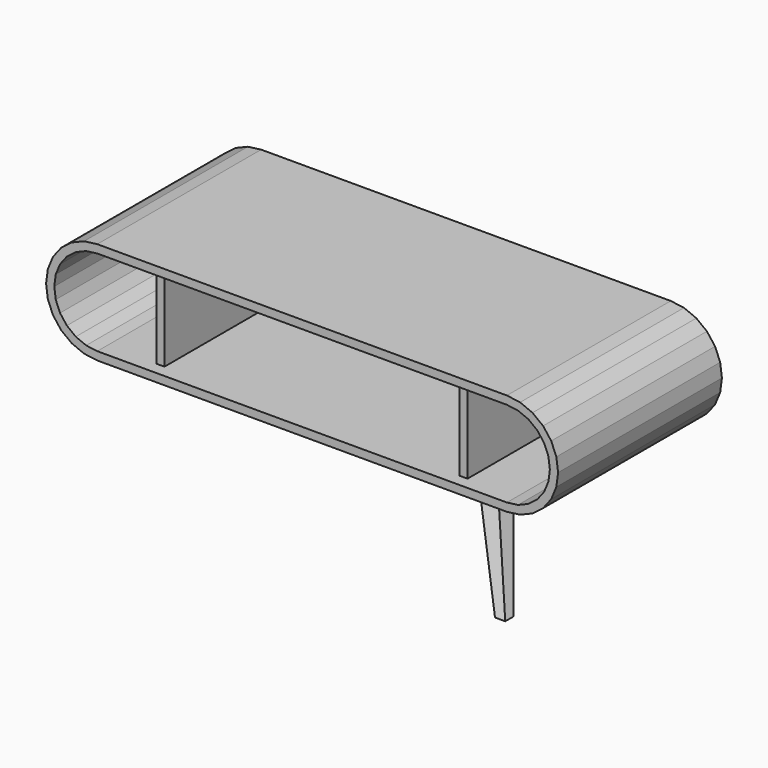
from build123d import *

# Parameters (mm, degrees)
PAD_DEPTH    = 500
SKETCH003_W  = 20
SKETCH003_H  = 440
PAD001_DEPTH = 210


with BuildPart() as top:
    # Sketch → Pad (new body)
    with BuildSketch(Plane.XZ):
        Polygon((0, 500), (1000, 500), (1032.352381, 495.740728), (1062.5, 483.253175), (1088.388348, 463.388348), (1108.253175, 437.5), (1120.740728, 407.352381), (1125, 375), (1120.740728, 342.647619), (1108.253175, 312.5), (1088.388348, 286.611652), (1062.5, 266.746825), (1032.352381, 254.259272), (1000, 250), (0, 250), (-32.352381, 254.259272), (-62.5, 266.746825), (-88.388348, 286.611652), (-108.253175, 312.5), (-120.740728, 342.647619), (-125, 375), (-120.740728, 407.352381), (-108.253175, 437.5), (-88.388348, 463.388348), (-62.5, 483.253175), (-32.352381, 495.740728), align=None)
        Polygon((0, 480), (1000, 480), (1027.176, 476.422212), (1052.5, 465.932667), (1074.246212, 449.246212), (1090.932667, 427.5), (1101.422212, 402.176), (1105, 375), (1101.422212, 347.824), (1090.932667, 322.5), (1074.246212, 300.753788), (1052.5, 284.067333), (1027.176, 273.577788), (1000, 270), (0, 270), (-27.176, 273.577788), (-52.5, 284.067333), (-74.246212, 300.753788), (-90.932667, 322.5), (-101.422212, 347.824), (-105, 375), (-101.422212, 402.176), (-90.932667, 427.5), (-74.246212, 449.246212), (-52.5, 465.932667), (-27.176, 476.422212), align=None, mode=Mode.SUBTRACT)
    extrude(amount=PAD_DEPTH)

    # Sketch003 (on DatumPlane) → Pad001 (join)
    with BuildSketch(Plane.XY.offset(270)):
        with Locations((130, -250)):
            Rectangle(SKETCH003_W, SKETCH003_H)
        with Locations((870, -250)):
            Rectangle(SKETCH003_W, SKETCH003_H)
    extrude(amount=PAD001_DEPTH)


with BuildPart() as leg:
    # Sketch001 (on DatumPlane) → AdditiveLoft section 0
    with BuildSketch(Plane.XY.offset(250)):
        Polygon((120, -380), (170, -380), (170, -330.070711), (169.929289, -330), (120, -330), align=None)
    # Sketch002 → AdditiveLoft section 1
    with BuildSketch(Plane.XY):
        Polygon((20, -455), (20, -480), (45, -480), (45, -464.270267), (35.729733, -455), align=None)
    loft()


with BuildPart() as leg2:
    # Part__Mirroring: instance of Leg
    add(leg.part.mirror(Plane(origin=(0, -250, 0), x_dir=(-1, 0, 0), z_dir=(0, -1, 0))))


with BuildPart() as leg3:
    # Part__Mirroring001: instance of Leg2
    add(leg2.part.mirror(Plane(origin=(500, 0, 0), x_dir=(0, -1, 0), z_dir=(1, 0, 0))))


with BuildPart() as leg4:
    # Part__Mirroring002: instance of Leg3
    add(leg3.part.mirror(Plane(origin=(0, -250, 0), x_dir=(-1, 0, 0), z_dir=(0, -1, 0))))


solid = Compound([top.part, leg4.part])
